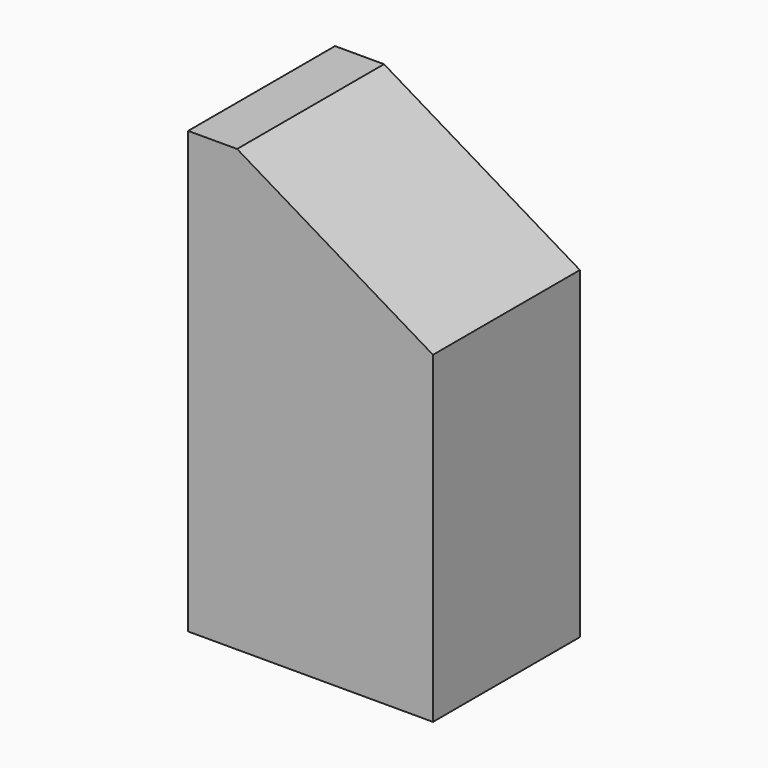
from build123d import *

# Parameters (mm, degrees)
SKETCH012_W     = 16
SKETCH012_H     = 16
PAD008_DEPTH    = 28.8
POCKET004_DEPTH = 16
PAD131_DEPTH    = 16
SKETCH188_W     = 16
SKETCH188_H     = 2
POCKET070_DEPTH = 30


with BuildPart() as part:
    # Sketch012 (on Face88 of Binder004) → Pad008 (new body)
    with BuildSketch(Plane.XY.offset(-28.8)):
        with Locations((135.8, 32)):
            Rectangle(SKETCH012_W, SKETCH012_H)
    extrude(amount=PAD008_DEPTH)

    # Sketch013 (on Face2 of Pad008) → Pocket004 (cut)
    with BuildSketch(Plane.XZ.offset(-24)):
        Polygon((143.8, -9.6), (127.8, 0), (143.8, 0), align=None)
    extrude(amount=-POCKET004_DEPTH, mode=Mode.SUBTRACT)

    # Sketch131 (on Face2 of Pocket004) → Pad131 (join)
    with BuildSketch(Plane(origin=(0, 40, 0), x_dir=(-1, 0, 0), z_dir=(0, 1, 0))):
        Polygon((-127.8, 0), (-131, 0), (-143.8, -7.68), (-143.8, -10.88), (-131, -3.2), (-127.8, -3.2), align=None)
    extrude(amount=-PAD131_DEPTH)

    # Sketch188 (on Face1 of Pad131) → Pocket070 (cut)
    with BuildSketch(Plane(origin=(0, 0, -28.8), x_dir=(1, 0, 0), z_dir=(0, 0, -1))):
        with Locations((135.8, -25)):
            Rectangle(SKETCH188_W, SKETCH188_H)
        with Locations((135.8, -39)):
            Rectangle(SKETCH188_W, SKETCH188_H)
    extrude(amount=-POCKET070_DEPTH, mode=Mode.SUBTRACT)


solid = part.part
